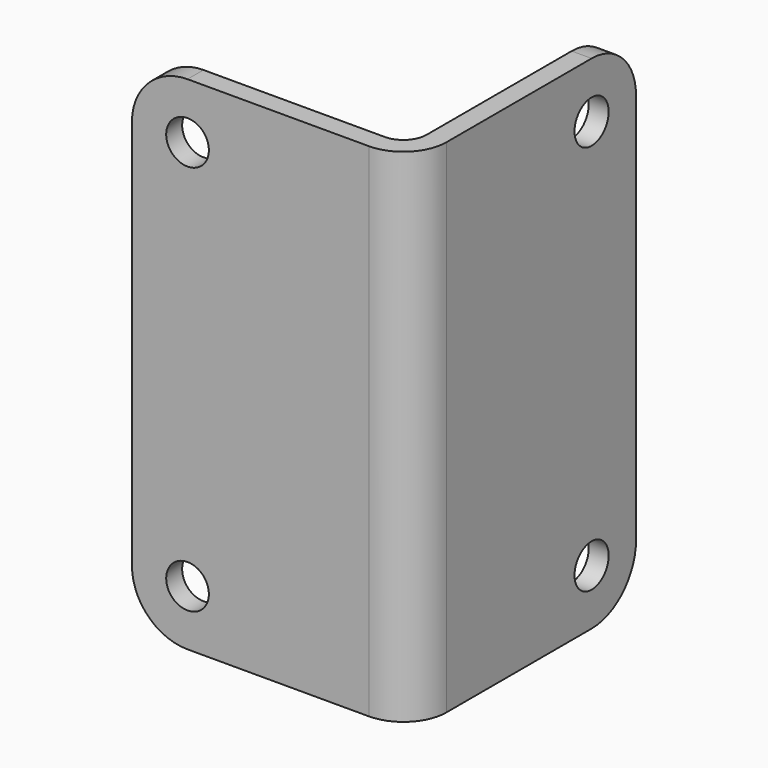
from build123d import *

# Parameters (mm, degrees)
F1_DEPTH = 43.005985
F2_R     = 1.98374
F3_R     = 3.69316
F4_R     = 1.8288
F5_DEPTH = 1.70942
F6_R     = 1.8288
F7_DEPTH = 1.70942
F8_R     = 4.7625


with BuildPart() as f1:
    # F0 (on Top) → F1 (new body)
    with BuildSketch(Plane.XY):
        Polygon((1.70942, 22.28596), (0, 22.28596), (0, 0), (-22.28596, 0), (-22.28596, -1.70942), (1.70942, -1.70942), align=None)
    extrude(amount=F1_DEPTH)

    # F2
    f2_edges = [f1.edges().sort_by_distance(p)[0] for p in [
        (0, 0, 21.502992),
    ]]
    fillet(f2_edges, radius=F2_R)

    # F3
    f3_edges = [f1.edges().sort_by_distance(p)[0] for p in [
        (1.70942, -1.70942, 21.502992),
    ]]
    fillet(f3_edges, radius=F3_R)

    # F4 (on face) → F5 (cut, through all)
    with BuildSketch(Plane(origin=(0, 0, 0), x_dir=(0, -1, 0), z_dir=(-1, 0, 0))):
        with Locations((-17.52346, 38.243485)):
            Circle(F4_R)
        with Locations((-17.52346, 4.7625)):
            Circle(F4_R)
    extrude(amount=-F5_DEPTH, mode=Mode.SUBTRACT)

    # F6 (on face) → F7 (cut, through all)
    with BuildSketch(Plane(origin=(0, 0, 0), x_dir=(-1, 0, 0), z_dir=(0, 1, 0))):
        with Locations((17.52346, 38.243485)):
            Circle(F6_R)
        with Locations((17.52346, 4.7625)):
            Circle(F6_R)
    extrude(amount=-F7_DEPTH, mode=Mode.SUBTRACT)

    # F8
    f8_edges = [f1.edges().sort_by_distance(p)[0] for p in [
        (0.85471, 22.28596, 43.005985),
        (-22.28596, -0.85471, 43.005985),
        (-22.28596, -0.85471, 0),
        (0.85471, 22.28596, 0),
    ]]
    fillet(f8_edges, radius=F8_R)


solid = f1.part
